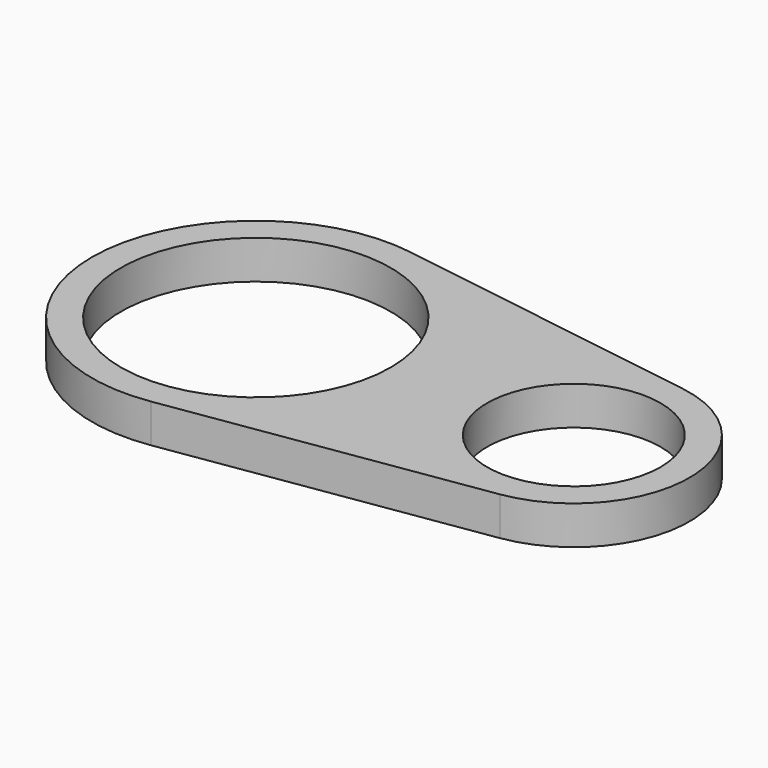
from build123d import *

# Parameters (mm, degrees)
F0_R     = 35
F0_R_2   = 22.5
F1_DEPTH = 10


with BuildPart() as f1:
    # F0 (on Top) → F1 (new body)
    with BuildSketch(Plane.XY):
        with BuildLine():
            Line((87.045455, 29.653648), (6.439394, 42.009335))
            ThreePointArc((6.439394, 42.009335), (-42.5, 0), (6.439394, -42.009335))
            Line((6.439394, -42.009335), (87.045455, -29.653648))
            ThreePointArc((87.045455, -29.653648), (112.5, 0), (87.045455, 29.653648))
        make_face()
        Circle(F0_R, mode=Mode.SUBTRACT)
        with Locations((82.5, 0)):
            Circle(F0_R_2, mode=Mode.SUBTRACT)
    extrude(amount=F1_DEPTH)


solid = f1.part
